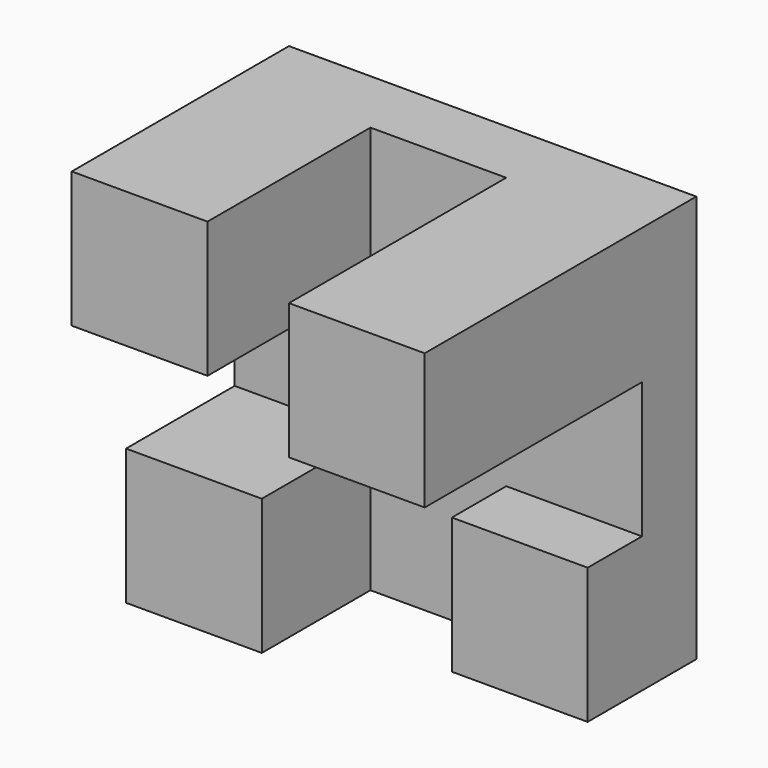
from build123d import *

# Parameters (mm, degrees)
F0_W     = 76.2
F0_H     = 76.2
F1_DEPTH = 12.7
F2_W     = 25.4
F2_H     = 25.4
F3_DEPTH = 12.7
F4_W     = 25.4
F4_H     = 25.4
F5_DEPTH = 25.4
F6_W     = 25.4
F6_H     = 25.4
F7_DEPTH = 38.1
F8_W     = 25.4
F8_H     = 25.4
F9_DEPTH = 50.8


with BuildPart() as f1:
    # F0 (on Front) → F1 (new body)
    with BuildSketch(Plane.XZ):
        with Locations((-4.175233, -5.982885)):
            Rectangle(F0_W, F0_H)
    extrude(amount=F1_DEPTH)

    # F2 (on face) → F3 (join)
    with BuildSketch(Plane.XZ.offset(12.7)):
        with Locations((21.224767, -31.382885)):
            Rectangle(F2_W, F2_H)
    extrude(amount=F3_DEPTH)

    # F4 (on face) → F5 (join)
    with BuildSketch(Plane.XZ.offset(12.7)):
        with Locations((-29.575233, -31.382885)):
            Rectangle(F4_W, F4_H)
    extrude(amount=F5_DEPTH)

    # F6 (on face) → F7 (join)
    with BuildSketch(Plane.XZ.offset(12.7)):
        with Locations((-29.575233, 19.417115)):
            Rectangle(F6_W, F6_H)
    extrude(amount=F7_DEPTH)

    # F8 (on face) → F9 (join)
    with BuildSketch(Plane.XZ.offset(12.7)):
        with Locations((21.224767, 19.417115)):
            Rectangle(F8_W, F8_H)
    extrude(amount=F9_DEPTH)


solid = f1.part
